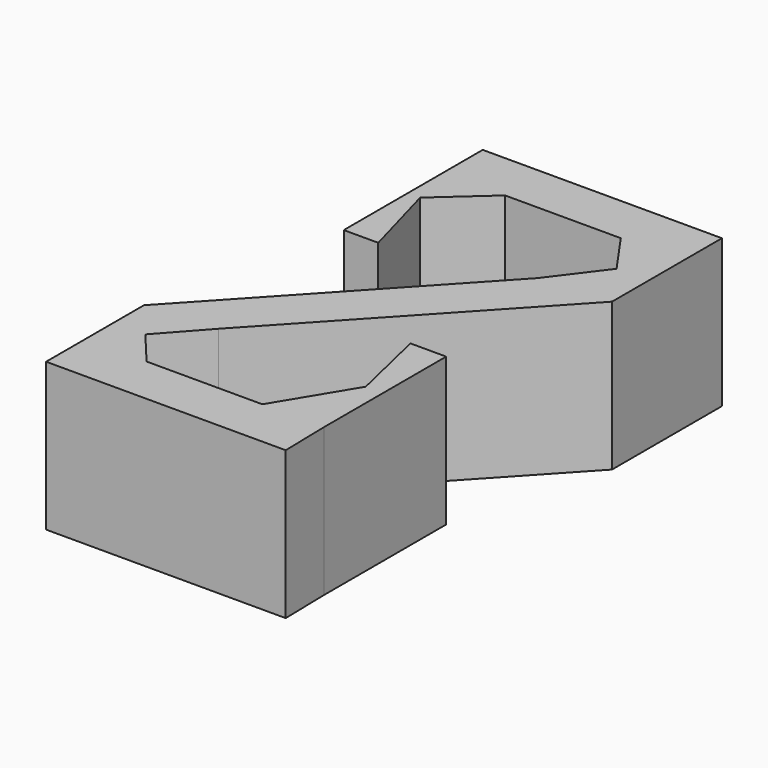
from build123d import *

# Parameters (mm, degrees)
F1_DEPTH = 3


with BuildPart() as f1:
    # F0 (on Top) → F1 (new body)
    with BuildSketch(Plane.XY):
        Polygon((-1.428907, -2.407704), (2.857814, 2.211777), (2.208733, 3.138307), (1.428907, 2.103039), (-2.857814, -2.516442), (-2.215881, -3.284665), align=None)
        Polygon((-2.857814, -4), (-2.215881, -3.284665), (-2.857814, -2.516442), align=None)
        Polygon((0.730746, -4), (-1.618143, -4), (-2.857814, -4), (-2.857814, -5), (2.005268, -5), (1.983487, -4), align=None)
        Polygon((1.633301, -2.505144), (1.983487, -4), (1.983487, -1.925149), align=None)
        Polygon((1.633301, -2.505144), (0.730746, -4), (1.983487, -4), align=None)
        Polygon((1.605074, 4), (2.857814, 4), (2.857814, 5), (-1.996555, 5), (-1.996555, 4), (-0.743815, 4), align=None)
        Polygon((-1.747311, 3.100817), (-1.996555, 4), (-1.996555, 2.877482), align=None)
        Polygon((-1.296617, 1.474879), (-1.747311, 3.100817), (-1.996555, 2.877482), (-1.996555, 1.474879), align=None)
        Polygon((-1.747311, 3.100817), (-0.743815, 4), (-1.996555, 4), align=None)
        Polygon((1.257835, -0.902368), (1.633301, -2.505144), (1.983487, -1.925149), (1.983487, -0.902368), align=None)
        Polygon((2.208733, 3.138307), (2.857814, 2.211777), (2.857814, 4), align=None)
        Polygon((-1.618143, -4), (-2.215881, -3.284665), (-2.857814, -4), align=None)
        Polygon((2.208733, 3.138307), (2.857814, 4), (1.605074, 4), align=None)
    extrude(amount=F1_DEPTH)


solid = f1.part
